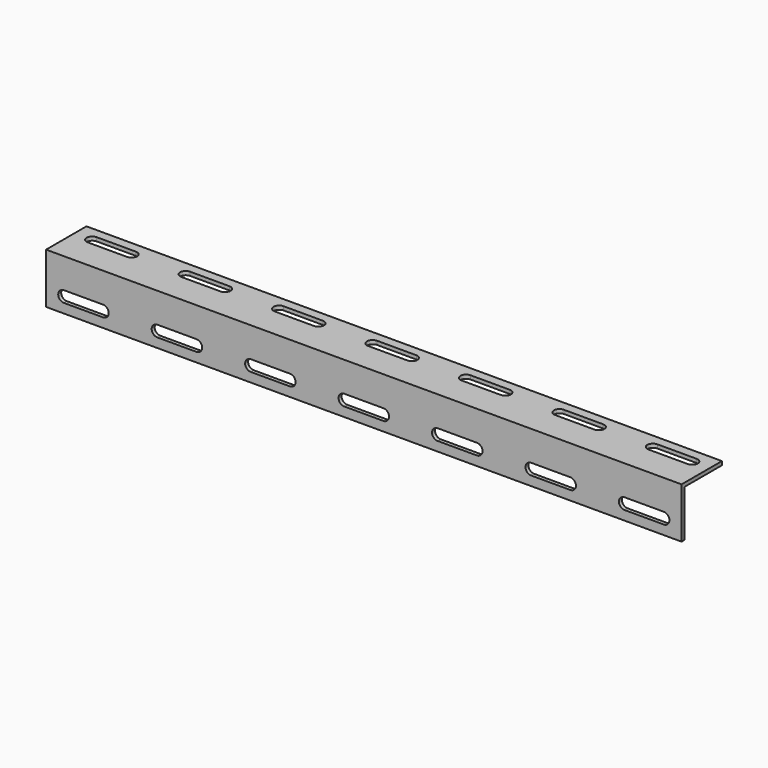
from build123d import *

# Parameters (mm, degrees)
PAD005_DEPTH           = 170
POCKET001_DEPTH        = 5
LINEARPATTERN_COUNT    = 4
LINEARPATTERN_PITCH    = 50
LINEARPATTERN001_COUNT = 4
LINEARPATTERN001_PITCH = 50
POCKET002_DEPTH        = 5
LINEARPATTERN002_COUNT = 4
LINEARPATTERN002_PITCH = 50
LINEARPATTERN003_COUNT = 4
LINEARPATTERN003_PITCH = 50


with BuildPart() as part:
    # Sketch006 → Pad005 (new body, symmetric)
    with BuildSketch(Plane.YZ):
        Polygon((2, -2), (27, -2), (27, 0), (0, 0), (0, -27), (2, -27), align=None)
    extrude(amount=PAD005_DEPTH, both=True)

    # Sketch007 → Pocket001 (cut)
    with BuildSketch(Plane.XZ):
        with BuildLine():
            ThreePointArc((-10.5, -16), (-13.5, -19), (-10.5, -22))
            Line((-10.5, -22), (10.5, -22))
            ThreePointArc((10.5, -22), (13.5, -19), (10.5, -16))
            Line((-10.5, -16), (10.5, -16))
        make_face()
    pocket001 = extrude(amount=-POCKET001_DEPTH, mode=Mode.SUBTRACT)

    # LinearPattern: Pocket001 ×4
    with Locations(*[(i * LINEARPATTERN_PITCH, 0, 0) for i in range(1, LINEARPATTERN_COUNT)]):
        add(pocket001, mode=Mode.SUBTRACT)

    # LinearPattern001: Pocket001 ×4
    with Locations(*[(-i * LINEARPATTERN001_PITCH, 0, 0) for i in range(1, LINEARPATTERN001_COUNT)]):
        add(pocket001, mode=Mode.SUBTRACT)

    # Sketch008 → Pocket002 (cut)
    with BuildSketch(Plane.XY):
        with BuildLine():
            ThreePointArc((-10.5, 22), (-13.5, 19), (-10.5, 16))
            Line((-10.5, 16), (10.5, 16))
            ThreePointArc((10.5, 16), (13.5, 19), (10.5, 22))
            Line((-10.5, 22), (10.5, 22))
        make_face()
    pocket002 = extrude(amount=-POCKET002_DEPTH, mode=Mode.SUBTRACT)

    # LinearPattern002: Pocket002 ×4
    with Locations(*[(i * LINEARPATTERN002_PITCH, 0, 0) for i in range(1, LINEARPATTERN002_COUNT)]):
        add(pocket002, mode=Mode.SUBTRACT)

    # LinearPattern003: Pocket002 ×4
    with Locations(*[(-i * LINEARPATTERN003_PITCH, 0, 0) for i in range(1, LINEARPATTERN003_COUNT)]):
        add(pocket002, mode=Mode.SUBTRACT)


solid = part.part
